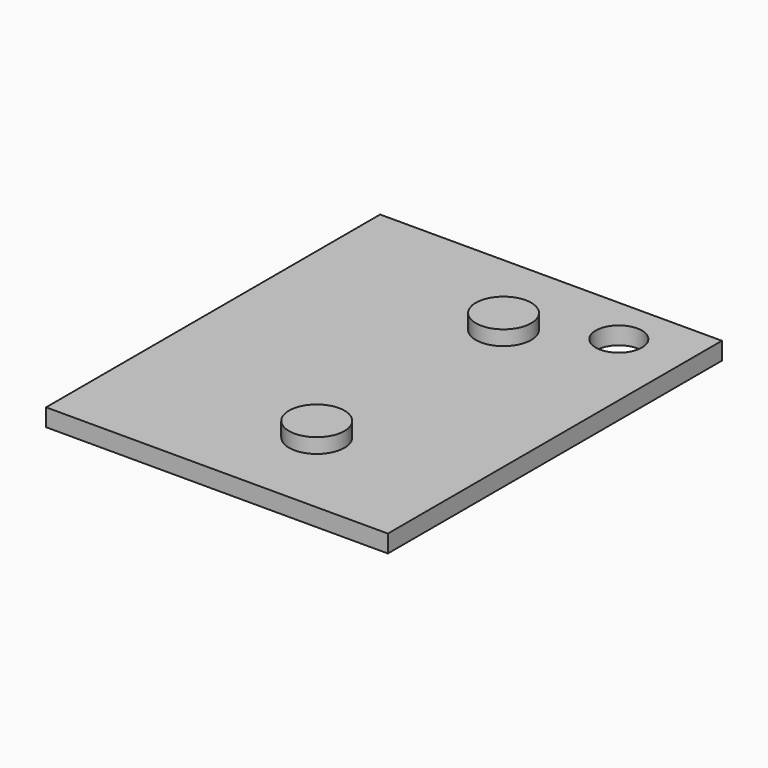
from build123d import *

# Parameters (mm, degrees)
PAD_DEPTH    = 19
SKETCH002_R  = 25
POCKET_DEPTH = 19.001
SKETCH003_R  = 30
PAD001_DEPTH = 16


with BuildPart() as part:
    # Sketch → Pad (new body)
    with BuildSketch(Plane.XY):
        Polygon((0, 413.879036), (0, 452), (370, 452), (370, 0), (0, 0), align=None)
    extrude(amount=-PAD_DEPTH)

    # Sketch002 (on Face6 of Pad) → Pocket (cut, through all)
    with BuildSketch(Plane.XY):
        with Locations((300, 400)):
            Circle(SKETCH002_R)
    extrude(amount=-POCKET_DEPTH, mode=Mode.SUBTRACT)

    # Sketch003 (on Face4 of Pocket) → Pad001 (join)
    with BuildSketch(Plane.XY):
        with Locations((213.29, 352.375)):
            Circle(SKETCH003_R)
        with Locations((213.29, 99.625)):
            Circle(SKETCH003_R)
    extrude(amount=PAD001_DEPTH)


solid = part.part
